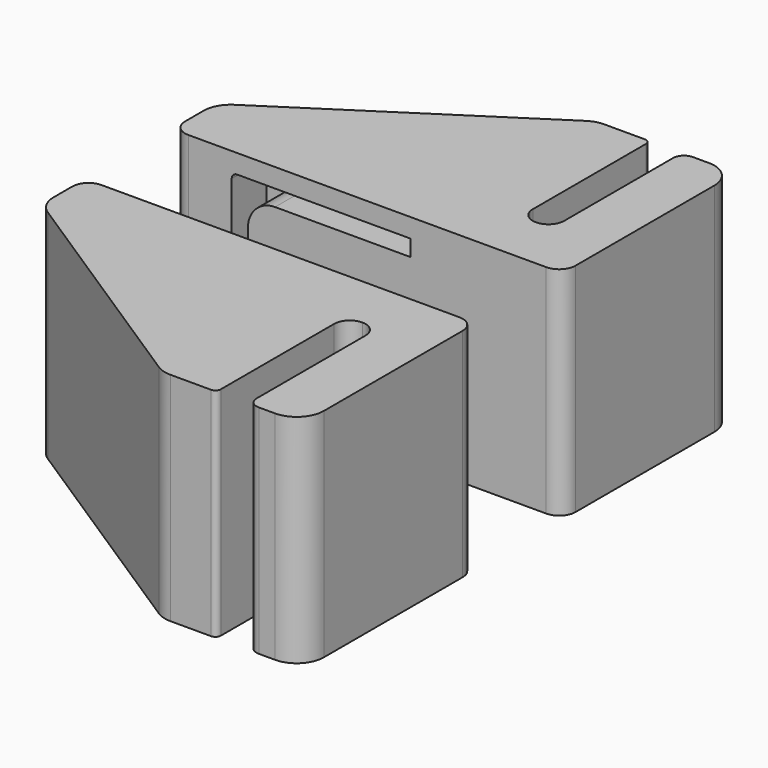
from build123d import *

# Parameters (mm, degrees)
F1_DEPTH = 20
F3_DEPTH = 8


with BuildPart() as f1:
    # F0 (on Top) → F1 (new body, symmetric)
    with BuildSketch(Plane.XY):
        with BuildLine():
            Line((28, -20), (31, -20))
            ThreePointArc((31, -20), (34.535534, -18.535534), (36, -15))
            Line((36, -15), (36, 17))
            ThreePointArc((36, 17), (35.12132, 19.12132), (33, 20))
            Line((33, 20), (-33, 20))
            ThreePointArc((-33, 20), (-35.12132, 19.12132), (-36, 17))
            Line((-36, 17), (-36, 12.714908))
            ThreePointArc((-36, 12.714908), (-35.394038, 10.329026), (-33.723027, 8.521446))
            Line((-33.723027, 8.521446), (8.957931, -19.193462))
            ThreePointArc((8.957931, -19.193462), (10.260978, -19.794127), (11.680959, -20))
            Line((11.680959, -20), (19.2, -20))
            ThreePointArc((19.2, -20), (19.907107, -19.707107), (20.2, -19))
            Line((20.2, -19), (20.2, 7.1))
            ThreePointArc((20.2, 7.1), (21.04939, 9.15061), (23.1, 10))
            ThreePointArc((23.1, 10), (25.15061, 9.15061), (26, 7.1))
            Line((26, 7.1), (26, -18))
            ThreePointArc((26, -18), (26.585786, -19.414214), (28, -20))
        make_face()
    extrude(amount=F1_DEPTH, both=True)

    # F2 (on face) → F3 (cut)
    with BuildSketch(Plane(origin=(0, 20, 0), x_dir=(-1, 0, 0), z_dir=(0, 1, 0))):
        with BuildLine():
            Line((22, -16.5), (25, -16.5))
            Line((25, -16.5), (25, 15.5))
            ThreePointArc((25, 15.5), (24.707107, 16.207107), (24, 16.5))
            Line((24, 16.5), (-8, 16.5))
            Line((-8, 16.5), (-8, 13.5))
            Line((-8, 13.5), (17, 13.5))
            ThreePointArc((17, 13.5), (20.535534, 12.035534), (22, 8.5))
            Line((22, 8.5), (22, -16.5))
        make_face()
    extrude(amount=-F3_DEPTH, mode=Mode.SUBTRACT)


with BuildPart() as f5_1:
    # F5: instance of F1
    add(f1.part.mirror(Plane(origin=(1.252416, 30, -0.57769), x_dir=(-1, 0, 0), z_dir=(0, 1, 0))))


solid = Compound([f1.part, f5_1.part])
